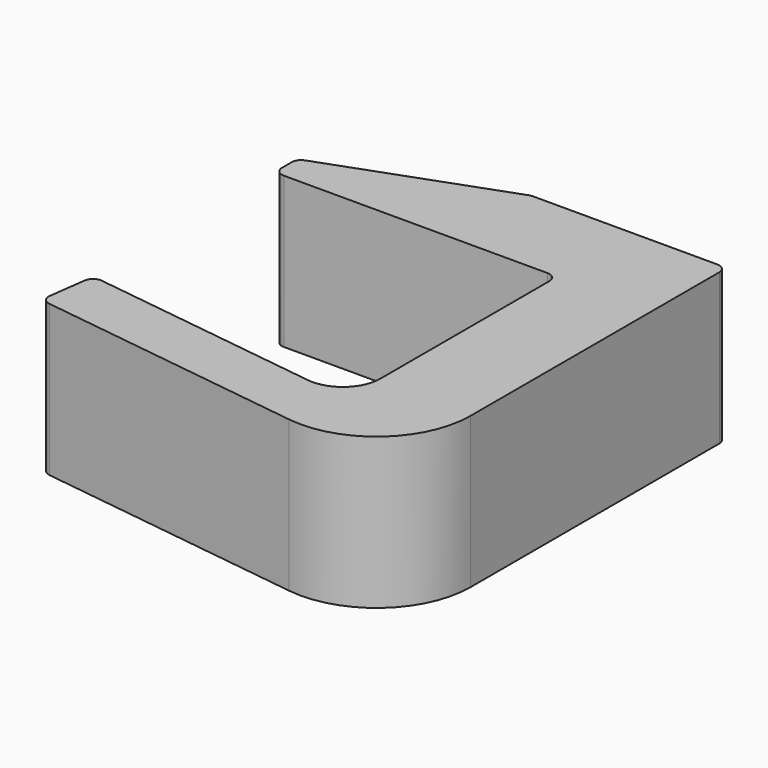
from build123d import *

# Parameters (mm, degrees)
F1_DEPTH = 8
F2_R     = 2
F3_R     = 0.5
F4_R     = 5


with BuildPart() as f1:
    # F0 (on Top) → F1 (new body)
    with BuildSketch(Plane.XY):
        Polygon((0, 14), (0, 0), (-15, 2), (-15.396491, -0.973684), (5, -3.693216), (5, 19), (-5.383829, 19), (-15, 15.5), (-15, 14), align=None)
    extrude(amount=F1_DEPTH)

    # F2
    f2_edges = [f1.edges().sort_by_distance(p)[0] for p in [
        (0, 0, 4),
    ]]
    fillet(f2_edges, radius=F2_R)

    # F3
    f3_edges = [f1.edges().sort_by_distance(p)[0] for p in [
        (-15, 14, 4),
        (-15, 2, 4),
        (-15.396491, -0.973684, 4),
        (-15, 15.5, 4),
        (-5.383829, 19, 4),
        (0, 14, 4),
        (5, 19, 4),
    ]]
    fillet(f3_edges, radius=F3_R)

    # F4
    f4_edges = [f1.edges().sort_by_distance(p)[0] for p in [
        (5, -3.693216, 4),
    ]]
    fillet(f4_edges, radius=F4_R)


solid = f1.part
